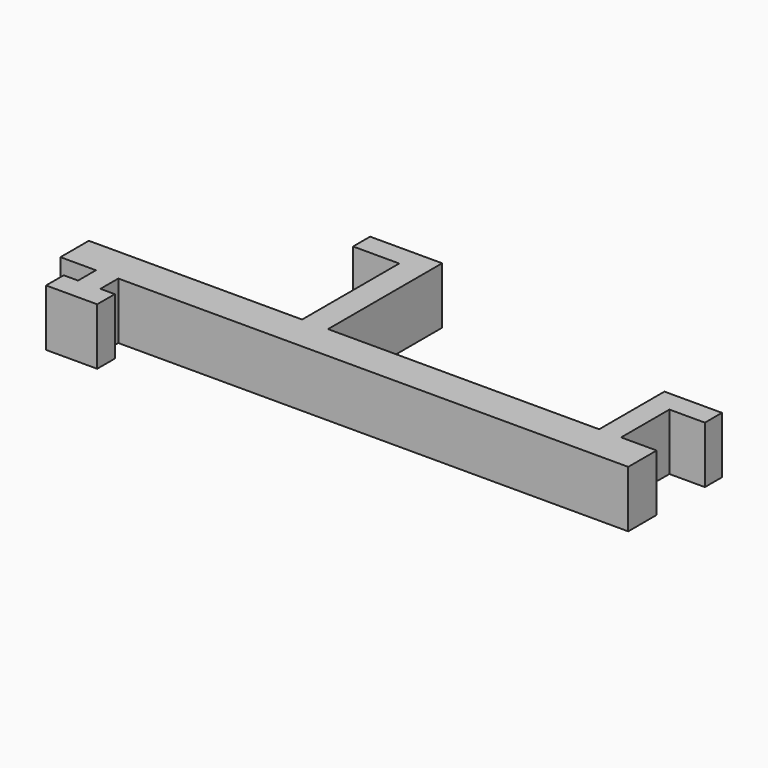
from build123d import *

# Parameters (mm, degrees)
F0_W     = 6.5
F0_H     = 3
F0_W_2   = 5
F0_W_3   = 3.15
F0_H_2   = 3.15
F1_DEPTH = 8


with BuildPart() as f1:
    # F0 (on Top) → F1 (new body)
    with BuildSketch(Plane.XY):
        Polygon((-71.85, 0), (0, 0), (0, 5), (-5, 5), (-8.1, 5), (-46.3, 5), (-49.95, 5), (-80, 5), (-80, 0), (-75, 0), align=None)
        Polygon((-49.95, 5), (-46.3, 5), (-46.3, 25.1), (-49.95, 25.1), (-49.95, 22.1), align=None)
        with Locations((-53.2, 23.6)):
            Rectangle(F0_W, F0_H)
        Polygon((-8.1, 5), (-5, 5), (-5, 13.5), (-5, 16.5), (-8.1, 16.5), align=None)
        with Locations((-2.5, 15)):
            Rectangle(F0_W_2, F0_H)
        with Locations((-73.425, -1.575)):
            Rectangle(F0_W_3, F0_H_2)
        Polygon((-69.825, -3.15), (-71.85, -3.15), (-75, -3.15), (-77.025, -3.15), (-77.025, -6.25), (-69.825, -6.25), align=None)
    extrude(amount=F1_DEPTH)


solid = f1.part
